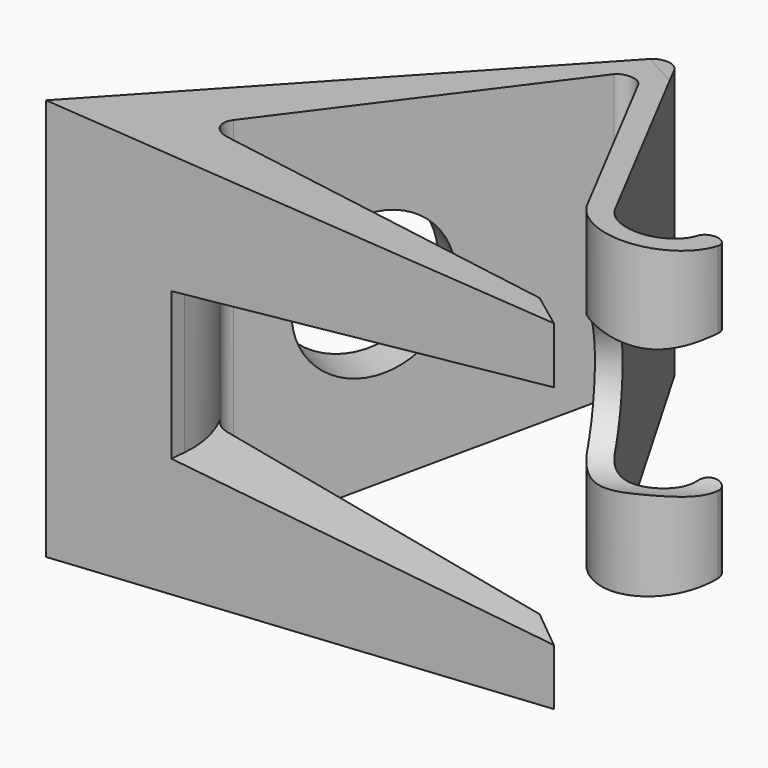
from build123d import *

# Parameters (mm, degrees)
F1_DEPTH      = 58
F3_DEPTH      = 25
F5_DEPTH      = 95.4
F6_R          = 15
F7_R          = 10
F8_DEPTH      = 10
F8_DEPTH_BACK = 20
F9_R          = 10.4169044955
F10_DEPTH     = 25


with BuildPart() as f1:
    # F0 (on Top) → F1 (new body)
    with BuildSketch(Plane.XY):
        with BuildLine():
            ThreePointArc((11.3887710857, 47.9319766204), (9.6390886527, 48.9631570378), (7.8894062197, 47.9319766204))
            Line((7.8894062197, 47.9319766204), (-27.7575390254, -16.4461955428))
            Line((-27.7575390254, -16.4461955428), (45.5045364797, -16.4461955428))
            Line((45.5045364797, -16.4461955428), (40.2530199854, -12.4482339651))
            Line((40.2530199854, -12.4482339651), (34.8717773227, -11.8983741444))
            Line((34.8717773227, -11.8983741444), (-7.9129768242, -7.5265926221))
            Line((-7.9129768242, -7.5265926221), (-8.7686574365, -7.4391584702))
            ThreePointArc((-8.7686574365, -7.4391584702), (-11.0484779416, -5.9775041051), (-11.2219896129, -3.2749296438))
            Line((-11.2219896129, -3.2749296438), (7.8894062197, 41.407315159))
            ThreePointArc((7.8894062197, 41.407315159), (9.6390886527, 42.4384955764), (11.3887710857, 41.407315159))
            Line((11.3887710857, 41.407315159), (27.8816032063, 11.6213579495))
            ThreePointArc((27.8816032063, 11.6213579495), (37.1870634085, 7.3303350671), (44.0722971617, 14.9196712118))
            ThreePointArc((44.0722971617, 14.9196712118), (42.6641613212, 16.6551483551), (40.9286841779, 15.2470125146))
            ThreePointArc((40.9286841779, 15.2470125146), (36.556153133, 10.4273347675), (30.6466350134, 13.1523883301))
            Line((30.6466350134, 13.1523883301), (11.3887710857, 47.9319766204))
        make_face()
    extrude(amount=F1_DEPTH)

    # F2 (on face) → F3 (cut)
    with BuildSketch(Plane(origin=(-0.842891654, -8.2490197652, 0), x_dir=(-0.9948200667, 0.1016515362, 0), z_dir=(0.1016515362, 0.9948200667, 0))):
        Polygon((-41.3098941341, 13.2178132166), (-41.3098941341, 29), (-83.8253051043, 29), (-83.8253051043, 8.7828920186), align=None)
        Polygon((-41.3098941341, 29), (-41.3098941341, 44.7821867834), (-83.8253051043, 49.2171079814), (-83.8253051043, 29), align=None)
        Polygon((7.9670344895, 29), (7.9670344895, 39.6419496238), (-41.3098941341, 44.7821867834), (-41.3098941341, 29), align=None)
        Polygon((7.9670344895, 18.3580503762), (7.9670344895, 29), (-41.3098941341, 29), (-41.3098941341, 13.2178132166), align=None)
    extrude(amount=-F3_DEPTH, mode=Mode.SUBTRACT)

    # F4 (on face) → F5 (cut)
    with BuildSketch(Plane(origin=(-14.2745575957, 7.9039891304, 0), x_dir=(-0.4844097913, -0.8748412165, 0), z_dir=(-0.8748412165, 0.4844097913, 0))):
        Polygon((-45.7545743561, 0), (27.833833402, 0), (-45.7545743561, 9.3257259006), align=None)
        Polygon((-45.7545743561, 58), (-45.7545743561, 48.6742740994), (27.833833402, 58), align=None)
        Polygon((27.833833402, -12.4238803983), (27.833833402, 0), (-45.7545743561, 0), (-45.7545743561, 9.3257259006), (-52.6641197503, 10.201360099), (-53.7899360061, -12.4238803983), align=None)
        Polygon((-52.6641197503, 47.798639901), (-45.7545743561, 48.6742740994), (-45.7545743561, 58), (27.833833402, 58), (27.833833402, 63.3924901485), (-55.1632341309, 67.5189115496), align=None)
    extrude(amount=-F5_DEPTH, mode=Mode.SUBTRACT)

    # F6
    f6_edges = [f1.edges().sort_by_distance(p)[0] for p in [
        (-8.768657, -7.439158, 10.261165),
        (-8.768657, -7.439158, 29),
        (-8.768657, -7.439158, 47.738835),
    ]]
    fillet(f6_edges, radius=F6_R)

    # F7 (on face) → F8 (cut, two sides)
    with BuildSketch(Plane(origin=(29.0290557323, 16.0737269393, 0), x_dir=(-0.4844097913, 0.8748412165, 0), z_dir=(0.8748412165, 0.4844097913, 0))) as f8_sk:
        with Locations((-8.284128271, 29)):
            Circle(F7_R)
    extrude(amount=-F8_DEPTH, mode=Mode.SUBTRACT)
    extrude(f8_sk.sketch, amount=F8_DEPTH_BACK, mode=Mode.SUBTRACT)

    # F9 (on face) → F10 (cut)
    with BuildSketch(Plane(origin=(-14.2745575957, 7.9039891304, 0), x_dir=(-0.4844097913, -0.8748412165, 0), z_dir=(-0.8748412165, 0.4844097913, 0))):
        with Locations((-9.4790859148, 29)):
            Circle(F9_R)
    extrude(amount=-F10_DEPTH, mode=Mode.SUBTRACT)


solid = f1.part
